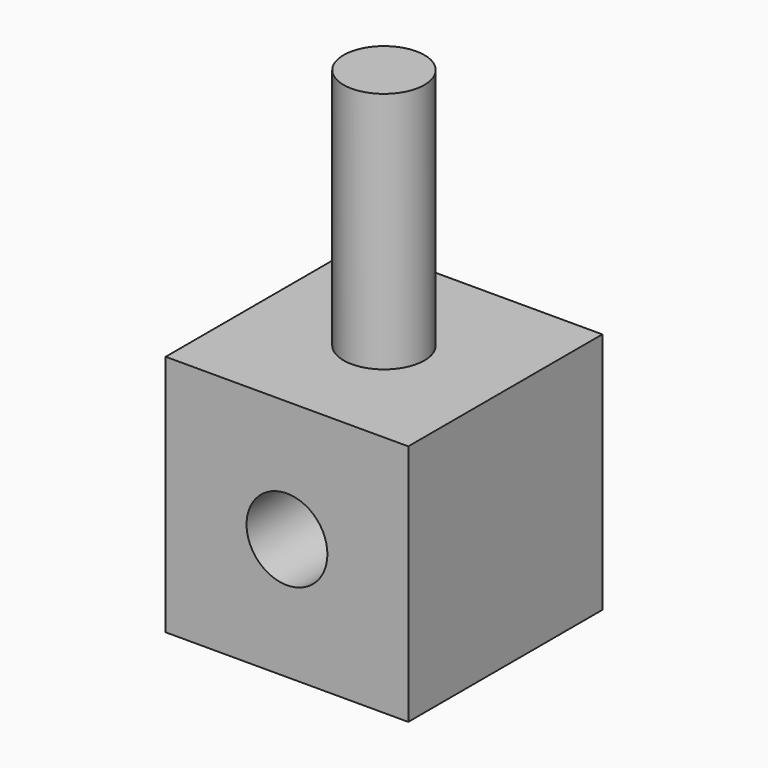
from build123d import *

# Parameters (mm, degrees)
F0_W     = 30
F0_H     = 30
F1_DEPTH = 30
F2_R     = 5
F3_DEPTH = 30
F4_R     = 5
F5_DEPTH = 30


with BuildPart() as f1:
    # F0 (on Front) → F1 (new body)
    with BuildSketch(Plane.XZ):
        Rectangle(F0_W, F0_H)
    extrude(amount=F1_DEPTH)

    # F2 (on face) → F3 (cut)
    with BuildSketch(Plane.XZ.offset(30)):
        Circle(F2_R)
    extrude(amount=-F3_DEPTH, mode=Mode.SUBTRACT)

    # F4 (on face) → F5 (join)
    with BuildSketch(Plane.XY.offset(15)):
        with Locations((0, -15)):
            Circle(F4_R)
    extrude(amount=F5_DEPTH)


solid = f1.part
